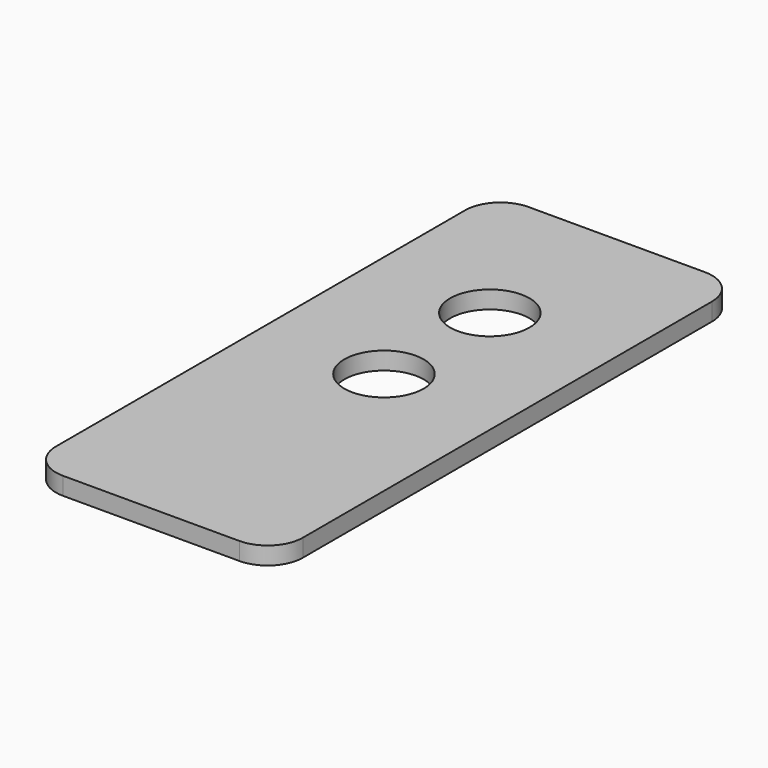
from build123d import *

# Parameters (mm, degrees)
SKETCH_R  = 4.5
PAD_DEPTH = 2


with BuildPart() as part:
    # Sketch → Pad (new body)
    with BuildSketch(Plane.XY):
        with BuildLine():
            Line((-10, 33), (10, 33))
            ThreePointArc((14, 29), (12.828427, 31.828427), (10, 33))
            Line((14, 29), (14, -29))
            ThreePointArc((10, -33), (12.828427, -31.828427), (14, -29))
            Line((10, -33), (-10, -33))
            ThreePointArc((-14, -29), (-12.828427, -31.828427), (-10, -33))
            Line((-14, -29), (-14, 29))
            ThreePointArc((-10, 33), (-12.828427, 31.828427), (-14, 29))
        make_face()
        Circle(SKETCH_R, mode=Mode.SUBTRACT)
        with Locations((0, 15)):
            Circle(SKETCH_R, mode=Mode.SUBTRACT)
    extrude(amount=PAD_DEPTH)


solid = part.part
